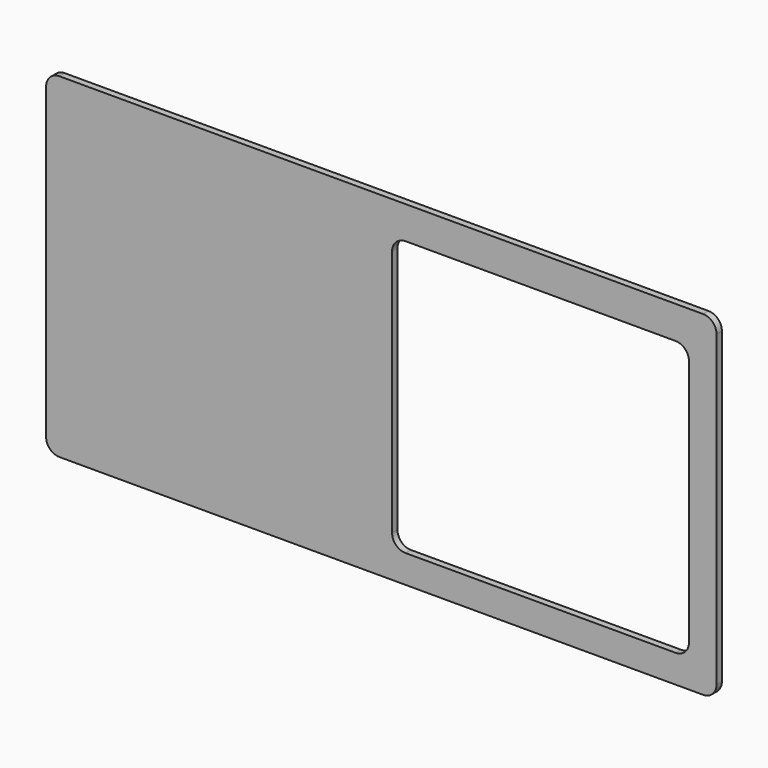
from build123d import *

# Parameters (mm, degrees)
F1_DEPTH = 10
F3_DEPTH = 25
F4_W     = 439.603239
F4_H     = 26.46663
F4_H_2   = 44.717323
F4_H_3   = 46.259694
F4_H_4   = 33.076853
F5_DEPTH = 5


with BuildPart() as f1:
    # F0 (on Front) → F1 (new body)
    with BuildSketch(Plane.XZ):
        with BuildLine():
            Line((494.592618, 316.358934), (-465.407382, 316.358934))
            ThreePointArc((-465.407382, 316.358934), (-479.549518, 310.501069), (-485.407382, 296.358934))
            Line((-485.407382, 296.358934), (-485.407382, -163.641066))
            ThreePointArc((-485.407382, -163.641066), (-479.549518, -177.783202), (-465.407382, -183.641066))
            Line((-465.407382, -183.641066), (494.592618, -183.641066))
            ThreePointArc((494.592618, -183.641066), (508.734753, -177.783202), (514.592618, -163.641066))
            Line((514.592618, -163.641066), (514.592618, 296.358934))
            ThreePointArc((514.592618, 296.358934), (508.734753, 310.501069), (494.592618, 316.358934))
        make_face()
    extrude(amount=F1_DEPTH)

    # F2 (on face) → F3 (cut)
    with BuildSketch(Plane.XZ.offset(10)):
        with BuildLine():
            Line((453.451734, 267.632127), (50.635236, 267.632127))
            ThreePointArc((50.635236, 267.632127), (36.4931, 261.774262), (30.635236, 247.632127))
            Line((30.635236, 247.632127), (30.635236, -121.80623))
            ThreePointArc((30.635236, -121.80623), (36.4931, -135.948366), (50.635236, -141.80623))
            Line((50.635236, -141.80623), (453.451734, -141.80623))
            ThreePointArc((453.451734, -141.80623), (467.593869, -135.948366), (473.451734, -121.80623))
            Line((473.451734, -121.80623), (473.451734, 247.632127))
            ThreePointArc((473.451734, 247.632127), (467.593869, 261.774262), (453.451734, 267.632127))
        make_face()
    extrude(amount=-F3_DEPTH, mode=Mode.SUBTRACT)

    # F4 (on face) → F5 (cut)
    with BuildSketch(Plane(origin=(0, 0, 0), x_dir=(-1, 0, 0), z_dir=(0, 1, 0))):
        with Locations((219.801619, -128.572915)):
            Rectangle(F4_W, F4_H)
        with Locations((219.801619, -22.358662)):
            Rectangle(F4_W, F4_H_2)
        with Locations((219.801619, 109.305013)):
            Rectangle(F4_W, F4_H_3)
        with Locations((219.801619, 251.0937)):
            Rectangle(F4_W, F4_H_4)
    extrude(amount=-F5_DEPTH, mode=Mode.SUBTRACT)


solid = f1.part
